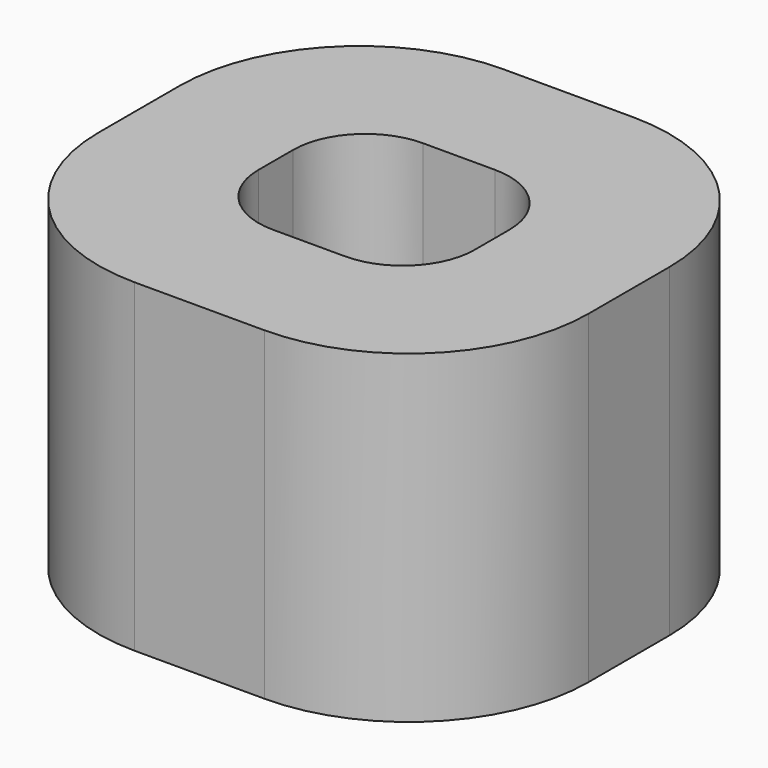
from build123d import *

# Parameters (mm, degrees)
F0_W     = 68
F0_H     = 64
F0_W_2   = 38
F0_H_2   = 34
F1_DEPTH = 25
F2_W     = 68
F2_H     = 64
F2_W_2   = 38
F2_H_2   = 34
F2_W_3   = 29.9999998808
F2_H_3   = 25.9999998808
F3_DEPTH = 20
F4_R     = 10
F5_R     = 14
F6_R     = 25


with BuildPart() as f1:
    # F0 (on Top) → F1 (new body)
    with BuildSketch(Plane.XY):
        Rectangle(F0_W, F0_H)
        Rectangle(F0_W_2, F0_H_2, mode=Mode.SUBTRACT)
    extrude(amount=F1_DEPTH)

    # F2 (on face) → F3 (join)
    with BuildSketch(Plane.XY.offset(25)):
        Rectangle(F2_W, F2_H)
        Rectangle(F2_W_2, F2_H_2, mode=Mode.SUBTRACT)
        Rectangle(F2_W_2, F2_H_2)
        Rectangle(F2_W_3, F2_H_3, mode=Mode.SUBTRACT)
    extrude(amount=F3_DEPTH)

    # F4
    f4_edges = [f1.edges().sort_by_distance(p)[0] for p in [
        (-15, 13, 35),
        (-15, -13, 35),
        (15, -13, 35),
        (15, 13, 35),
    ]]
    fillet(f4_edges, radius=F4_R)

    # F5
    f5_edges = [f1.edges().sort_by_distance(p)[0] for p in [
        (19, -17, 12.5),
        (19, 17, 12.5),
        (-19, 17, 12.5),
        (-19, -17, 12.5),
    ]]
    fillet(f5_edges, radius=F5_R)

    # F6
    f6_edges = [f1.edges().sort_by_distance(p)[0] for p in [
        (34, 32, 22.5),
        (-34, 32, 22.5),
        (34, -32, 22.5),
        (-34, -32, 22.5),
    ]]
    fillet(f6_edges, radius=F6_R)


solid = f1.part
